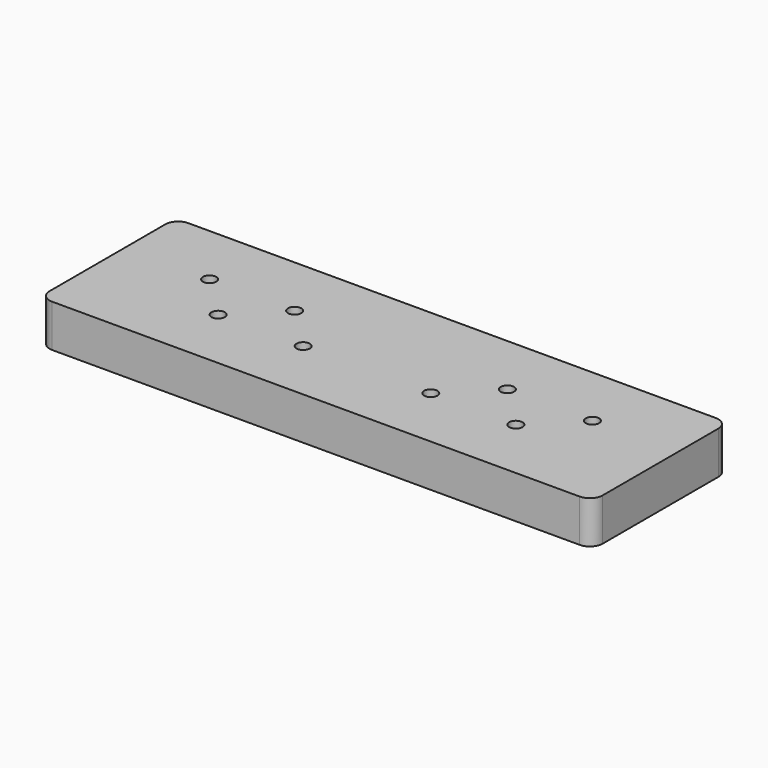
from build123d import *

# Parameters (mm, degrees)
SKETCH_W  = 130
SKETCH_H  = 40
SKETCH_R  = 1.5625
PAD_DEPTH = 10
FILLET_R  = 3


with BuildPart() as part:
    # Sketch → Pad (new body)
    with BuildSketch(Plane.XY):
        with Locations((65, 20)):
            Rectangle(SKETCH_W, SKETCH_H)
        with Locations((20, 25)):
            Circle(SKETCH_R, mode=Mode.SUBTRACT)
        with Locations((40, 25)):
            Circle(SKETCH_R, mode=Mode.SUBTRACT)
        with Locations((30, 15)):
            Circle(SKETCH_R, mode=Mode.SUBTRACT)
        with Locations((50, 15)):
            Circle(SKETCH_R, mode=Mode.SUBTRACT)
        with Locations((110, 25)):
            Circle(SKETCH_R, mode=Mode.SUBTRACT)
        with Locations((90, 25)):
            Circle(SKETCH_R, mode=Mode.SUBTRACT)
        with Locations((100, 15)):
            Circle(SKETCH_R, mode=Mode.SUBTRACT)
        with Locations((80, 15)):
            Circle(SKETCH_R, mode=Mode.SUBTRACT)
    extrude(amount=PAD_DEPTH)

    # Fillet
    fillet_edges = [part.edges().sort_by_distance(p)[0] for p in [
        (0, 0, 5),
        (130, 0, 5),
        (130, 40, 5),
        (0, 40, 5),
    ]]
    fillet(fillet_edges, radius=FILLET_R)


solid = part.part
